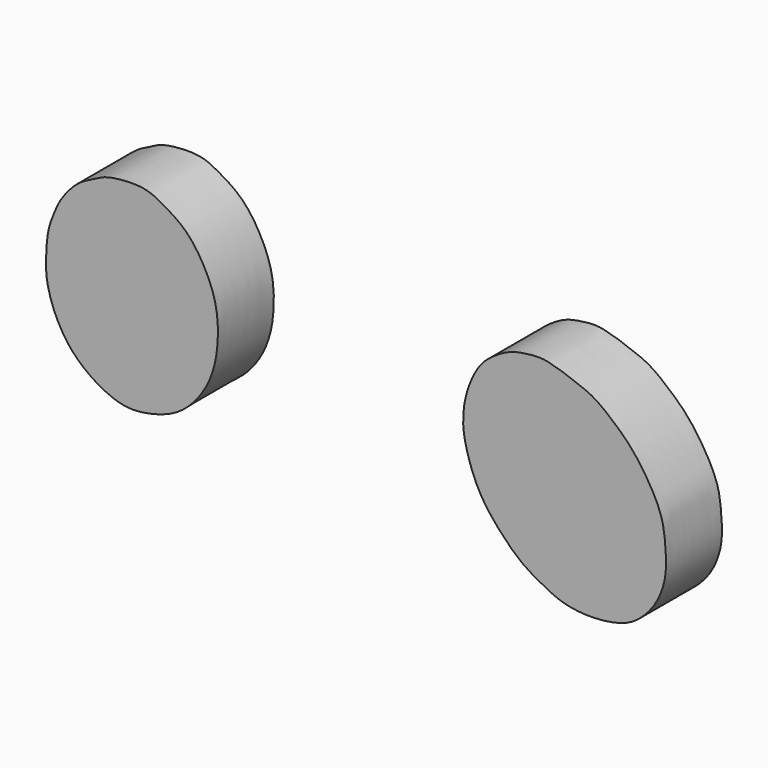
from build123d import *

# Parameters (mm, degrees)
F1_DEPTH = 25


with BuildPart() as f1:
    # F0 (on Front) → F1 (new body)
    with BuildSketch(Plane.XZ):
        with BuildLine():
            add(Edge.make_bspline(
                [(238.4835779667, -22.5745029747), (236.7545406238, -22.5247697295), (232.9245460344, -23.0026525478), (227.3898418357, -24.0010152878), (220.6726007618, -28.2548705802), (216.4513568508, -32.3421873301), (212.5820021492, -40.4225373481), (211.1416847504, -47.9381858981), (211.0322628303, -54.5244140866), (213.0106125963, -62.775407929), (216.0606188002, -70.5942976727), (220.0454610282, -76.9352183887), (224.876653697, -82.5504454521), (229.4221032233, -87.1655744344), (234.3003176902, -91.0118341954), (241.7500665721, -95.0425859284), (247.6230722111, -97.5148771912), (256.0974369658, -98.5780876243), (264.9480877561, -97.7324298891), (271.8280052285, -95.5001651376), (277.5762638089, -90.2861630881), (281.4334695278, -84.5453158396), (284.0776493402, -76.2934618032), (283.5847725431, -67.9010790602), (282.8811388167, -60.0682038728), (279.9999091225, -53.076992115), (276.1200579538, -46.6732341065), (271.4247651093, -40.130105834), (265.7740243818, -34.8241849625), (258.7142857676, -28.9812716027), (253.0906747057, -26.6707447044), (247.8900338905, -24.7402242401), (243.0390861139, -23.2066058491), (240.0699140259, -22.620131625), (238.4835779667, -22.5745029747)],
                knots=[0, 0, 0, 0, 0.0272298115, 0.0551177257, 0.0874168718, 0.1159026868, 0.1503710379, 0.1826994688, 0.2123681592, 0.2461911529, 0.2801031771, 0.3119836356, 0.3436736604, 0.3731174834, 0.4023063677, 0.4359637296, 0.4655564243, 0.4993282333, 0.5341894877, 0.5653277019, 0.5971775668, 0.6278641367, 0.6617571291, 0.6956310889, 0.7282285294, 0.7600093838, 0.7919733829, 0.8248106768, 0.857646238, 0.8927527569, 0.9215233216, 0.9488097723, 0.9750175252, 1, 1, 1, 1], degree=3))
        make_face()
    extrude(amount=F1_DEPTH)


with BuildPart() as f1b:
    # F0 (on Front) → F1, piece 2 (new body)
    with BuildSketch(Plane.XZ):
        with BuildLine():
            add(Edge.make_bspline(
                [(84.4925642014, -15.9276798368), (82.891104733, -16.2868040192), (81.0103452801, -17.1810791482), (74.4692140723, -20.34818863), (70.8364705399, -23.6577533835), (66.8166492714, -28.6077587759), (64.327987391, -34.627239649), (62.4183356911, -39.7513185047), (61.856218965, -48.1282664026), (61.8806092786, -55.3034511676), (64.1032005402, -63.0241053031), (66.8721142123, -68.8170902576), (70.4936498757, -74.4062007536), (75.8744226876, -79.5011965411), (81.9072538121, -83.3596480339), (90.5543260954, -87.1493291952), (101.3840775866, -85.4285800079), (110.0422569133, -81.9945853209), (118.180260319, -73.6410982036), (123.3433608166, -61.7979399892), (123.7860614187, -47.0043789034), (121.0816290681, -37.7458348099), (116.687476067, -29.351776244), (111.3165491978, -22.6910775512), (103.430694342, -17.8945483503), (96.499604742, -14.3298814816), (87.2286367696, -15.3141208653), (84.4925642014, -15.9276798368)],
                knots=[0, 0, 0, 0, 0.0277649871, 0.0643298905, 0.0959422119, 0.1309015826, 0.1664036924, 0.1992316336, 0.2393096825, 0.2773603663, 0.3165735135, 0.352075628, 0.3879680583, 0.4257444766, 0.4632215933, 0.5055775296, 0.5512442683, 0.5937555193, 0.6404540462, 0.6908728748, 0.7441596011, 0.7876152669, 0.8301017336, 0.8710225134, 0.9127631081, 0.9525638825, 1, 1, 1, 1], degree=3))
        make_face()
    extrude(amount=F1_DEPTH)


solid = Compound([f1.part, f1b.part])
